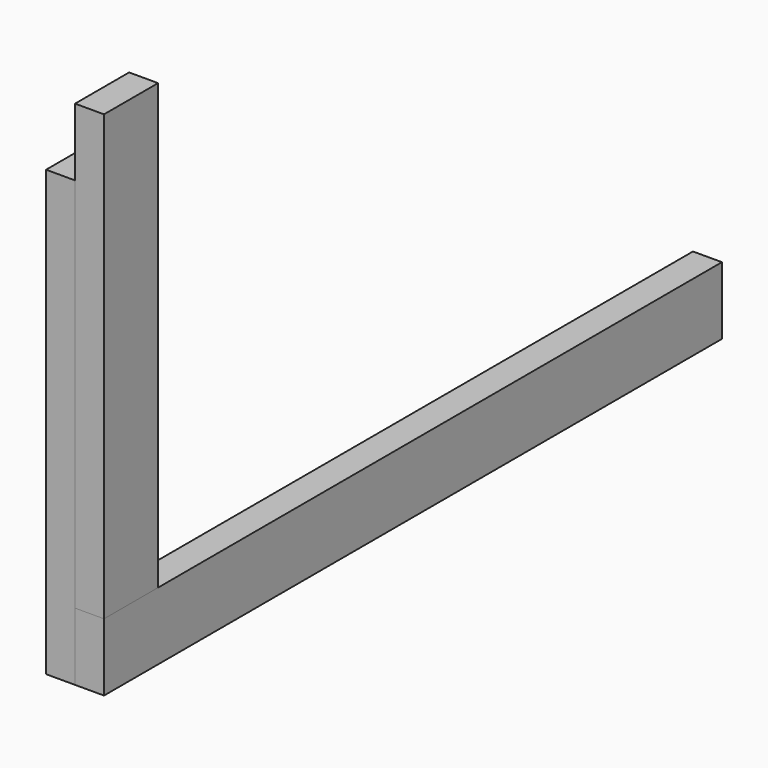
from build123d import *

# Parameters (mm, degrees)
F1_DEPTH = 1016
F2_W     = 38.1
F2_H     = 88.9
F3_DEPTH = 584.2
F4_W     = 38.1
F4_H     = 88.9
F5_DEPTH = 584.2


with BuildPart() as f1:
    # F0 (on Front) → F1 (new body)
    with BuildSketch(Plane.XZ):
        Polygon((-19.05, 0), (0, 0), (19.05, 0), (19.05, 88.9), (-19.05, 88.9), align=None)
    extrude(amount=-F1_DEPTH)


with BuildPart() as f3:
    # F2 (on Top) → F3 (new body)
    with BuildSketch(Plane.XY):
        with Locations((-38.1, 44.45)):
            Rectangle(F2_W, F2_H)
    extrude(amount=F3_DEPTH)


with BuildPart() as f5:
    # F4 (on face) → F5 (new body)
    with BuildSketch(Plane.XY.offset(88.9)):
        with Locations((0, 44.45)):
            Rectangle(F4_W, F4_H)
    extrude(amount=F5_DEPTH)


solid = Compound([f1.part, f3.part, f5.part])
